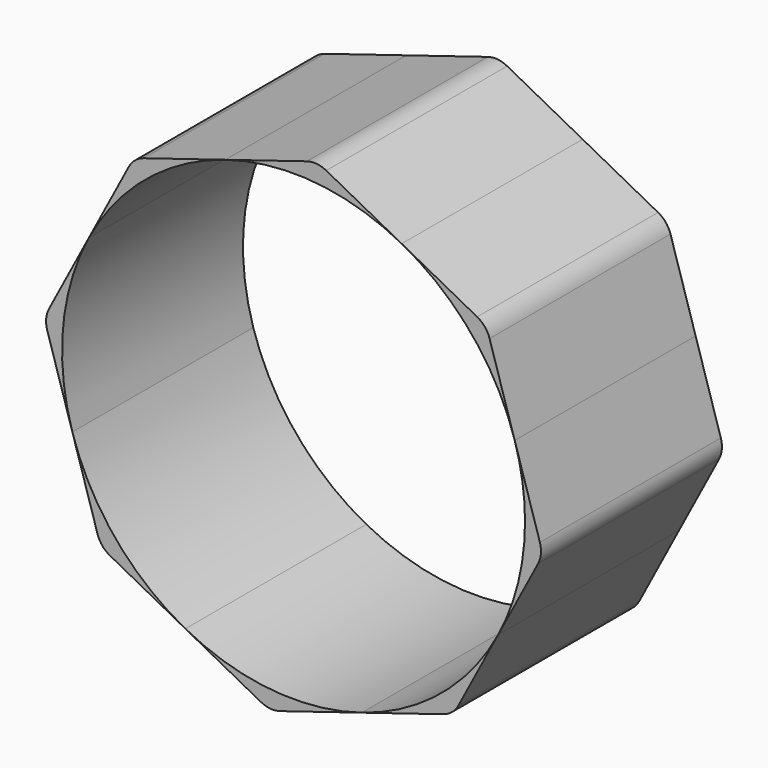
from build123d import *

# Parameters (mm, degrees)
F1_DEPTH = 8.89
F2_R     = 2


with BuildPart() as f1:
    # F0 (on Front) → F1 (new body, symmetric)
    with BuildSketch(Plane.XZ):
        with BuildLine():
            ThreePointArc((-29.229085, 20.811849), (-29.958424, 27.874879), (-27.929341, 34.679374))
            Line((-27.929341, 34.679374), (-31.451272, 28.014797))
            Line((-31.451272, 28.014797), (-29.229085, 20.811849))
        make_face()
        with BuildLine():
            ThreePointArc((-20.342321, 10.08697), (-25.852359, 14.565566), (-29.229085, 20.811849))
            Line((-29.229085, 20.811849), (-27.006898, 13.6089))
            Line((-27.006898, 13.6089), (-20.342321, 10.08697))
        make_face()
        with BuildLine():
            Line((-13.677744, 6.565039), (-6.474796, 8.787226))
            ThreePointArc((-6.474796, 8.787226), (-13.537826, 8.057887), (-20.342321, 10.08697))
            Line((-20.342321, 10.08697), (-13.677744, 6.565039))
        make_face()
        with BuildLine():
            Line((0.728153, 11.009413), (4.250083, 17.67399))
            ThreePointArc((4.250083, 17.67399), (-0.228513, 12.163952), (-6.474796, 8.787226))
            Line((-6.474796, 8.787226), (0.728153, 11.009413))
        make_face()
        with BuildLine():
            Line((7.772013, 24.338567), (5.549827, 31.541514))
            ThreePointArc((5.549827, 31.541514), (6.155252, 28.889406), (6.358574, 26.176682))
            ThreePointArc((6.358574, 26.176682), (5.823588, 21.79657), (4.250083, 17.67399))
            Line((4.250083, 17.67399), (7.772013, 24.338567))
        make_face()
        with BuildLine():
            Line((5.549827, 31.541514), (3.32764, 38.744464))
            Line((3.32764, 38.744464), (-3.336937, 42.266394))
            ThreePointArc((-3.336937, 42.266394), (2.173101, 37.787798), (5.549827, 31.541514))
        make_face()
        with BuildLine():
            ThreePointArc((-17.204462, 43.566138), (-10.141432, 44.295477), (-3.336937, 42.266394))
            Line((-3.336937, 42.266394), (-10.001514, 45.788324))
            Line((-10.001514, 45.788324), (-17.204462, 43.566138))
        make_face()
        with BuildLine():
            ThreePointArc((-27.929341, 34.679374), (-23.450745, 40.189411), (-17.204462, 43.566138))
            Line((-17.204462, 43.566138), (-24.407411, 41.343951))
            Line((-24.407411, 41.343951), (-27.929341, 34.679374))
        make_face()
    extrude(amount=F1_DEPTH, both=True)

    # F2
    f2_edges = [f1.edges().sort_by_distance(p)[0] for p in [
        (-31.451272, 0, 28.014797),
        (-24.407411, 0, 41.343951),
        (-10.001514, 0, 45.788324),
        (-27.006898, 0, 13.6089),
        (-13.677744, 0, 6.565039),
        (0.728153, 0, 11.009413),
        (7.772013, 0, 24.338567),
        (3.32764, 0, 38.744464),
    ]]
    fillet(f2_edges, radius=F2_R)


solid = f1.part
